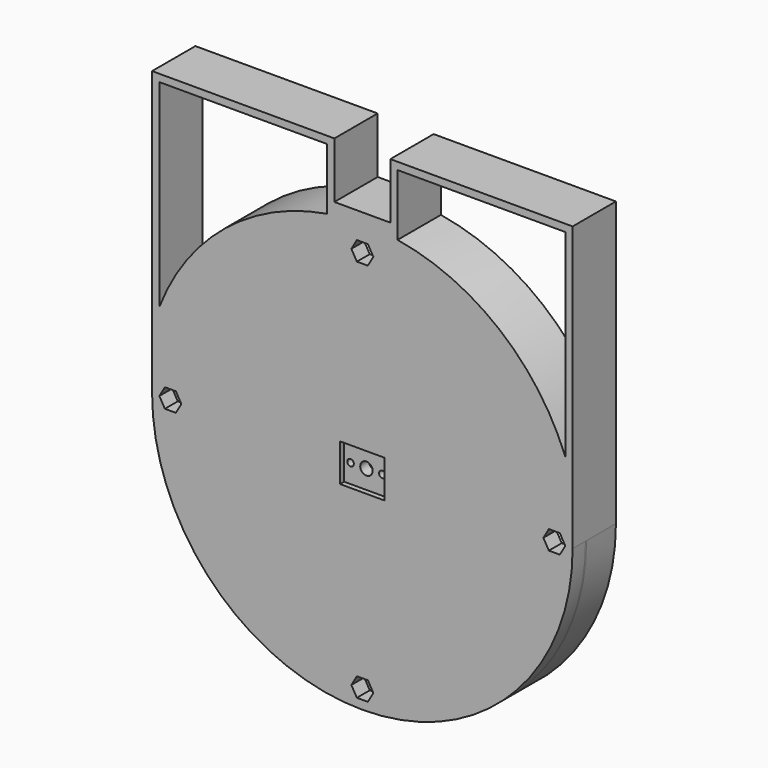
from build123d import *

# Parameters (mm, degrees)
SKETCH153_R     = 57.5
SKETCH153_R_2   = 50.2
PAD058_DEPTH    = 10
SKETCH154_R     = 57.5
SKETCH154_R_2   = 52.7
PAD059_DEPTH    = 10
SKETCH155_R     = 55.2
SKETCH155_R_2   = 45.630592
POCKET083_DEPTH = 10.001
SKETCH156_R     = 55.2
SKETCH156_R_2   = 52.7
PAD060_DEPTH    = 2.6
SKETCH157_R     = 57.5
SKETCH157_R_2   = 52.7
PAD061_DEPTH    = 0.4
SKETCH158_R     = 1.75
POCKET084_DEPTH = 5
SKETCH159_R     = 57.5
PAD062_DEPTH    = 4.4
SKETCH160_W     = 12.18
SKETCH160_H     = 10.29
POCKET085_DEPTH = 1.4
SKETCH161_R     = 1.7
POCKET086_DEPTH = 14.801
SKETCH162_R     = 0.9
POCKET087_DEPTH = 14.801
SKETCH163_R     = 1.55
POCKET088_DEPTH = 1
PAD063_DEPTH    = 14.8


with BuildPart() as part:
    # Sketch153 (on DatumPlane) → Pad058 (new body)
    with BuildSketch(Plane.XZ.offset(10)):
        Circle(SKETCH153_R)
        Circle(SKETCH153_R_2, mode=Mode.SUBTRACT)
    extrude(amount=-PAD058_DEPTH)

    # Sketch154 (on DatumPlane) → Pad059 (new body)
    with BuildSketch(Plane.XZ.offset(10)):
        Circle(SKETCH154_R)
        Circle(SKETCH154_R_2, mode=Mode.SUBTRACT)
    extrude(amount=-PAD059_DEPTH)

    # Sketch155 (on Face4 of PolarPattern018) → Pocket083 (cut, through all)
    with BuildSketch(Plane.XZ.offset(10)):
        Circle(SKETCH155_R)
        Circle(SKETCH155_R_2, mode=Mode.SUBTRACT)
    extrude(amount=-POCKET083_DEPTH, mode=Mode.SUBTRACT)

    # Sketch156 (on Face2 of Pocket083) → Pad060 (new body)
    with BuildSketch(Plane.XZ.offset(10)):
        Circle(SKETCH156_R)
        Circle(SKETCH156_R_2, mode=Mode.SUBTRACT)
    extrude(amount=-PAD060_DEPTH)

    # Sketch157 (on Face6 of Pad060) → Pad061 (new body)
    with BuildSketch(Plane.XZ.offset(10)):
        Circle(SKETCH157_R)
        Circle(SKETCH157_R_2, mode=Mode.SUBTRACT)
    extrude(amount=PAD061_DEPTH)

    # Sketch158 (on Face5 of Pad061) → Pocket084 (cut)
    with BuildSketch(Plane.XZ.offset(10.4)):
        with Locations((0, -52.5)):
            Circle(SKETCH158_R)
        with Locations((-52.5, 0)):
            Circle(SKETCH158_R)
        with Locations((0, 52.5)):
            Circle(SKETCH158_R)
        with Locations((52.5, 0)):
            Circle(SKETCH158_R)
    extrude(amount=-POCKET084_DEPTH, mode=Mode.SUBTRACT)

    # Sketch159 (on Face4 of Pocket084) → Pad062 (new body)
    with BuildSketch(Plane.XZ.offset(10.4)):
        Circle(SKETCH159_R)
        Polygon((3, -52.5), (1.5, -49.901924), (-1.5, -49.901924), (-3, -52.5), (-1.5, -55.098076), (1.5, -55.098076), align=None, mode=Mode.SUBTRACT)
        Polygon((3, 52.5), (1.5, 55.098076), (-1.5, 55.098076), (-3, 52.5), (-1.5, 49.901924), (1.5, 49.901924), align=None, mode=Mode.SUBTRACT)
        Polygon((-49.5, 0), (-51, 2.598076), (-54, 2.598076), (-55.5, 0), (-54, -2.598076), (-51, -2.598076), align=None, mode=Mode.SUBTRACT)
        Polygon((55.5, 0), (54, 2.598076), (51, 2.598076), (49.5, 0), (51, -2.598076), (54, -2.598076), align=None, mode=Mode.SUBTRACT)
    extrude(amount=PAD062_DEPTH)

    # Sketch160 (on Face13 of Pad062) → Pocket085 (cut)
    with BuildSketch(Plane.XZ.offset(14.8)):
        Rectangle(SKETCH160_W, SKETCH160_H)
    extrude(amount=-POCKET085_DEPTH, mode=Mode.SUBTRACT)

    # Sketch161 (on Face4 of Pocket085) → Pocket086 (cut, through all)
    with BuildSketch(Plane.XZ.offset(14.8)):
        Circle(SKETCH161_R)
    extrude(amount=-POCKET086_DEPTH, mode=Mode.SUBTRACT)

    # Sketch162 (on Face4 of Pocket086) → Pocket087 (cut, through all)
    with BuildSketch(Plane.XZ.offset(14.8)):
        with Locations((-4.35, 0)):
            Circle(SKETCH162_R)
        with Locations((4.35, 0)):
            Circle(SKETCH162_R)
    extrude(amount=-POCKET087_DEPTH, mode=Mode.SUBTRACT)

    # Sketch163 (on Face42 of Pocket087) → Pocket088 (cut)
    with BuildSketch(Plane(origin=(0, -10.4, 0), x_dir=(1, 0, 0), z_dir=(0, 1, 0))):
        with Locations((-4.35, 0)):
            Circle(SKETCH163_R)
        with Locations((4.35, 0)):
            Circle(SKETCH163_R)
    extrude(amount=-POCKET088_DEPTH, mode=Mode.SUBTRACT)

    # Sketch164 (on Face1 of Pocket088) → Pad063 (new body)
    with BuildSketch(Plane(origin=(0, 0, 0), x_dir=(1, 0, 0), z_dir=(0, 1, 0))):
        with BuildLine():
            Line((-7.65, -62.26), (7.65, -62.26))
            Line((7.65, -62.26), (7.65, -77.56))
            Line((7.65, -77.56), (57.5, -77.56))
            Line((57.5, 0), (57.5, -77.56))
            ThreePointArc((-57.5, 0), (0, -57.5), (57.5, 0))
            Line((-57.5, 0), (-57.5, -77.56))
            Line((-57.5, -77.56), (-7.65, -77.56))
            Line((-7.65, -62.26), (-7.65, -77.56))
        make_face()
        with BuildLine():
            Line((9.640661, -58.760865), (9.65, -75.56))
            Line((9.65, -75.56), (55.5, -75.56))
            Line((55.500076, -21.447651), (55.5, -75.56))
            ThreePointArc((9.640661, -58.760865), (37.533805, -46.204517), (55.500076, -21.447651))
        make_face(mode=Mode.SUBTRACT)
        with BuildLine():
            Line((-9.65, -75.56), (-55.5, -75.56))
            Line((-55.500076, -21.447651), (-55.5, -75.56))
            ThreePointArc((-55.500076, -21.447651), (-37.533805, -46.204517), (-9.640661, -58.760865))
            Line((-9.640661, -58.760865), (-9.65, -75.56))
        make_face(mode=Mode.SUBTRACT)
    extrude(amount=-PAD063_DEPTH)


solid = part.part
